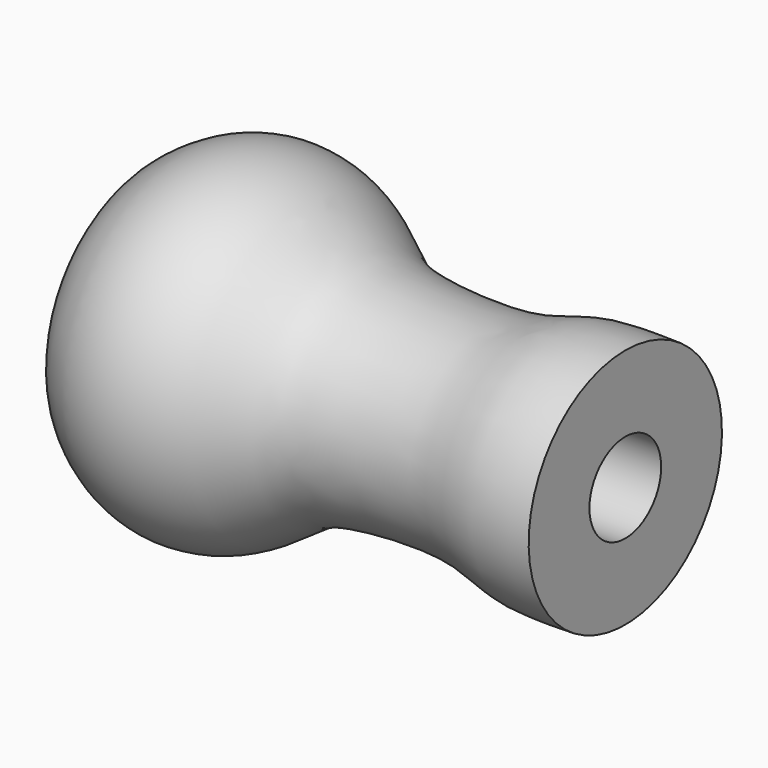
from build123d import *

# Parameters (mm, degrees)
F2_R     = 2.921
F3_DEPTH = 63.5


with BuildPart() as f1:
    # F0 (on Front) → F1 (revolve)
    with BuildSketch(Plane.XZ):
        with BuildLine():
            Line((-32.004, 0), (0, 0))
            Line((0, 0), (0, 7.874))
            add(Edge.make_bspline(
                [(-32.004, 6.858), (-31.7240577075, 7.4027067279), (-31.0895240395, 8.63737104), (-28.446969556, 10.4812689156), (-25.1152171415, 11.2050774937), (-21.2052489904, 10.2091955056), (-17.9964726984, 7.3246509106), (-15.1332256977, 6.8183052658), (-12.1948122719, 6.531644147), (-7.5664337534, 6.6150860016), (-4.4393696165, 7.9764992794), (-1.5400890797, 7.9095586569), (0, 7.874)],
                knots=[0, 0, 0, 0, 0.0751698542, 0.1703844135, 0.2695127958, 0.3768712538, 0.488108033, 0.577969998, 0.6714956753, 0.7866703571, 0.8866799369, 1, 1, 1, 1], degree=3))
            Line((-32.004, 6.858), (-32.004, 0))
        make_face()
    revolve(axis=Axis((-16.002, 0, 0), (-1, 0, 0)))


with BuildPart() as f3:
    # F2 (on face) → F3 (new body, symmetric)
    with BuildSketch(Plane(origin=(-32.004, 0, 0), x_dir=(0, -1, 0), z_dir=(-1, 0, 0))):
        Circle(F2_R)
    extrude(amount=F3_DEPTH, both=True)


with BuildPart() as f1_1:
    add(f1.part)

    # F4: cut F3
    add(f3.part, mode=Mode.SUBTRACT)


solid = f1_1.part
